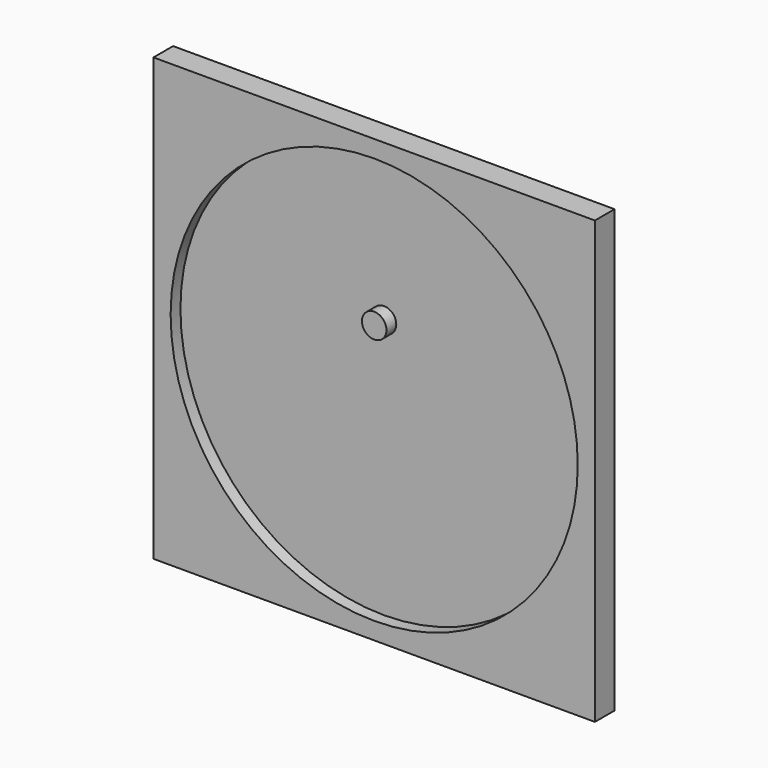
from build123d import *

# Parameters (mm, degrees)
F0_W     = 90
F0_H     = 90
F1_DEPTH = 2.5
F2_W     = 90
F2_H     = 90
F2_R     = 41.5
F3_DEPTH = 2.5
F4_R     = 2.5
F5_DEPTH = 2.5


with BuildPart() as f1:
    # F0 (on Front) → F1 (new body)
    with BuildSketch(Plane.XZ):
        Rectangle(F0_W, F0_H)
    extrude(amount=F1_DEPTH)

    # F2 (on face) → F3 (join)
    with BuildSketch(Plane.XZ.offset(2.5)):
        Rectangle(F2_W, F2_H)
        Circle(F2_R, mode=Mode.SUBTRACT)
    extrude(amount=F3_DEPTH)

    # F4 (on face) → F5 (join)
    with BuildSketch(Plane.XZ.offset(2.5)):
        with Locations((0, 11.5)):
            Circle(F4_R)
    extrude(amount=F5_DEPTH)


solid = f1.part
